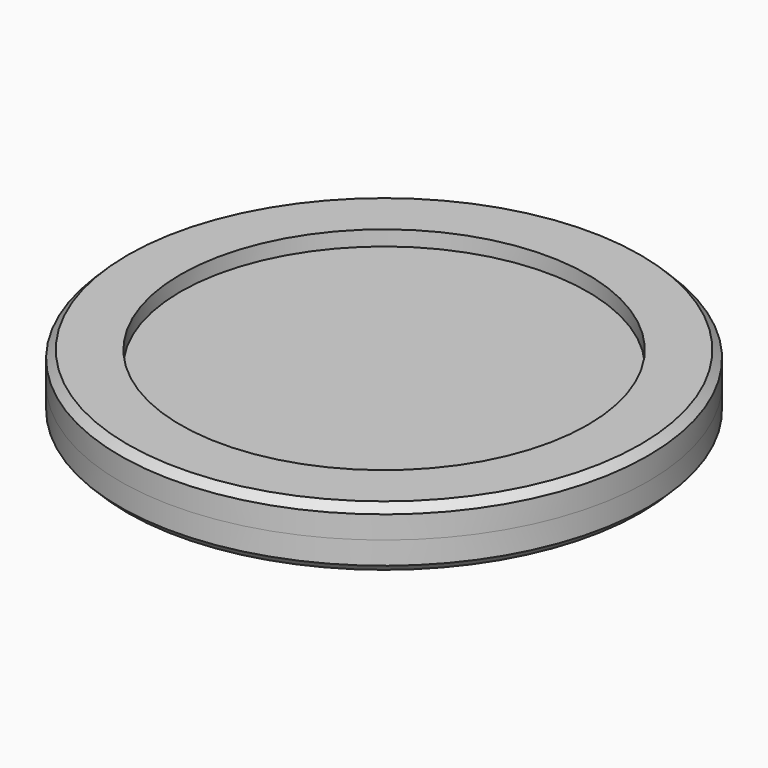
from build123d import *

# Parameters (mm, degrees)
F0_R     = 17.5
F1_DEPTH = 2
F2_R     = 13.5
F3_DEPTH = 1
F5_SIZE  = 0.5


with BuildPart() as f1:
    # F0 (on Top) → F1 (new body)
    with BuildSketch(Plane.XY):
        Circle(F0_R)
    extrude(amount=F1_DEPTH)

    # F2 (on face) → F3 (cut)
    with BuildSketch(Plane(origin=(0, 0, 0), x_dir=(1, 0, 0), z_dir=(0, 0, -1))):
        Circle(F2_R)
    extrude(amount=-F3_DEPTH, mode=Mode.SUBTRACT)

    # F4: F1 across face


with BuildPart() as f1_1:
    add(f1.part)
    add(f1.part.mirror(Plane.XY.offset(2)))

    # F5
    f5_edges = [f1_1.edges().sort_by_distance(p)[0] for p in [
        (-17.5, 0, 0),
        (17.5, 0, 2),
        (-17.5, 0, 4),
    ]]
    chamfer(f5_edges, length=F5_SIZE)


solid = f1_1.part
